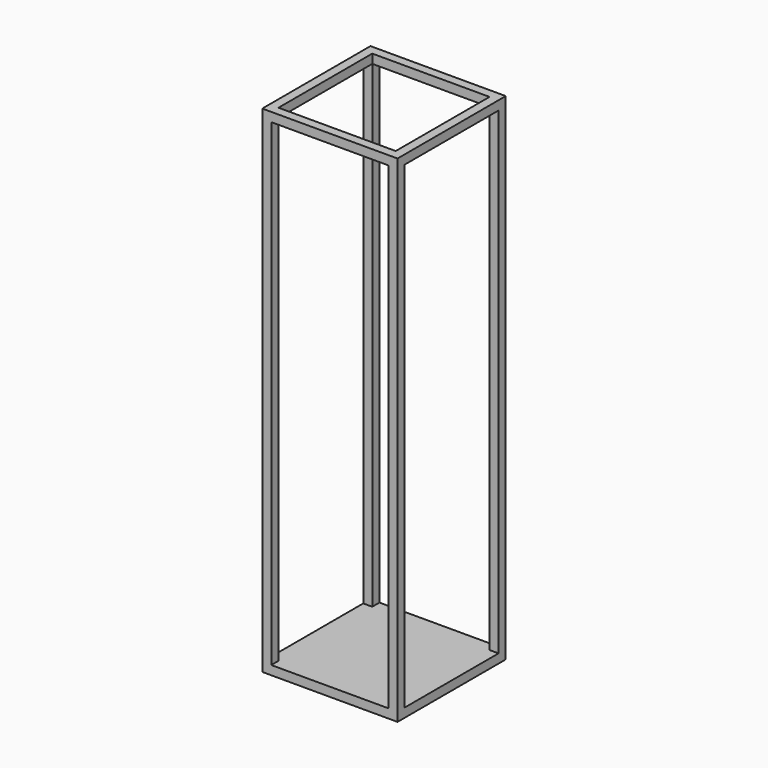
from build123d import *

# Parameters (mm, degrees)
F0_W     = 600
F0_H     = 2200
F0_W_2   = 520
F0_H_2   = 2120
F1_DEPTH = 600
F2_W     = 520
F2_H     = 520
F3_DEPTH = 40
F4_W     = 520
F4_H     = 2120
F5_DEPTH = 600


with BuildPart() as f1:
    # F0 (on Right) → F1 (new body)
    with BuildSketch(Plane.YZ):
        Rectangle(F0_W, F0_H)
        Rectangle(F0_W_2, F0_H_2, mode=Mode.SUBTRACT)
    extrude(amount=F1_DEPTH)

    # F2 (on face) → F3 (cut, through all)
    with BuildSketch(Plane.XY.offset(1100)):
        with Locations((300, 0)):
            Rectangle(F2_W, F2_H)
    extrude(amount=-F3_DEPTH, mode=Mode.SUBTRACT)

    # F4 (on face) → F5 (cut, through all)
    with BuildSketch(Plane(origin=(0, 300, 0), x_dir=(-1, 0, 0), z_dir=(0, 1, 0))):
        with Locations((-300, 0)):
            Rectangle(F4_W, F4_H)
    extrude(amount=-F5_DEPTH, mode=Mode.SUBTRACT)


solid = f1.part
